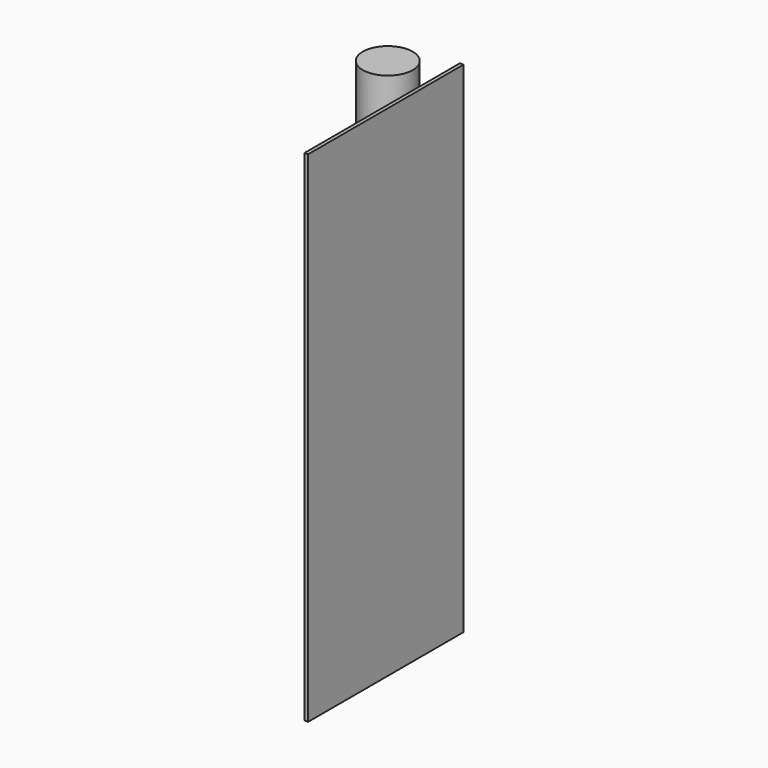
from build123d import *

# Parameters (mm, degrees)
F0_W     = 94.067589
F0_H     = 49.398624
F1_DEPTH = 127
F3_D     = 12.7


with BuildPart() as f1:
    # F0 (on Top) → F1 (new body)
    with BuildSketch(Plane.XY):
        with Locations((0.459827, 0.722587)):
            Rectangle(F0_W, F0_H)
    extrude(amount=F1_DEPTH)

    # F3 (through all)
    with Locations(Plane.XY.offset(127)):
        with Locations((-34.749828, 17.27638)):
            Hole(F3_D / 2)

    # F4: F1 across plane


with BuildPart() as f1_1:
    add(f1.part)
    add(f1.part.mirror(Plane.YZ), mode=Mode.SUBTRACT)


solid = f1_1.part
